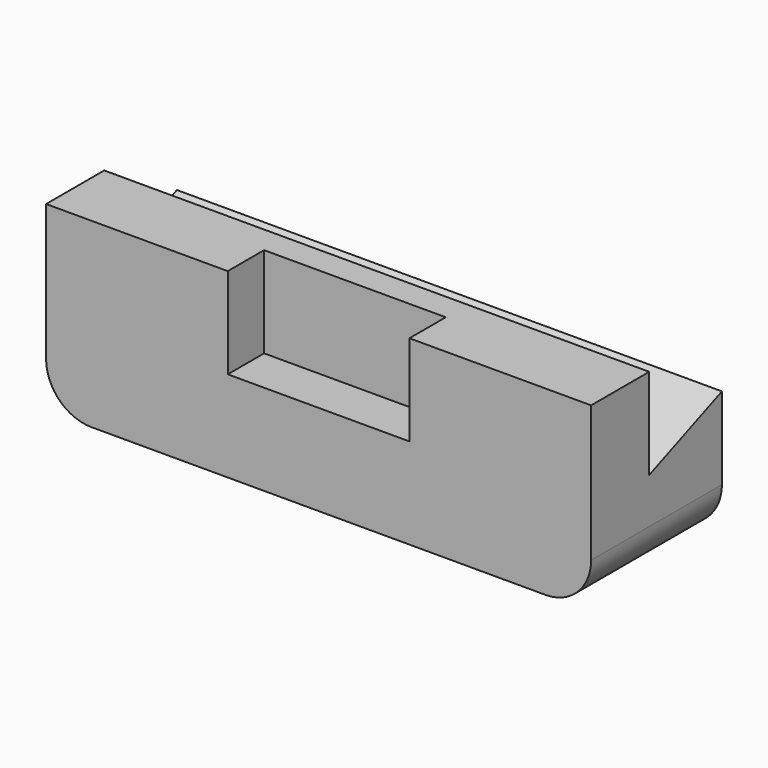
from build123d import *

# Parameters (mm, degrees)
F1_DEPTH = 20
F2_R     = 5
F3_W     = 20
F3_H     = 10
F4_DEPTH = 5
F5_DEPTH = 10
F7_DEPTH = 60.001


with BuildPart() as f1:
    # F0 (on Top) → F1 (new body)
    with BuildSketch(Plane.XY):
        Polygon((17.4899780222, -16.504585755), (17.4899780222, -21.504585755), (37.4899780222, -21.504585755), (37.4899780222, -13.504585755), (-22.5100219778, -13.504585755), (-22.5100219778, -21.504585755), (-2.5100219778, -21.504585755), (-2.5100219778, -16.504585755), align=None)
    extrude(amount=F1_DEPTH)

    # F2
    f2_edges = [f1.edges().sort_by_distance(p)[0] for p in [
        (-22.510022, -17.504586, 0),
        (37.489978, -17.504586, 0),
    ]]
    fillet(f2_edges, radius=F2_R)

    # F3 (on face) → F4 (join)
    with BuildSketch(Plane.XZ.offset(16.504585755)):
        with Locations((7.4899780222, 5)):
            Rectangle(F3_W, F3_H)
        with Locations((7.4899780222, 5)):
            Rectangle(F3_W, F3_H)
    extrude(amount=F4_DEPTH)

    # F5 (add): a face of the model
    f5_faces = [f1.faces().sort_by_distance(p)[0] for p in [
        (7.4899780222, -13.504585755, 10.0801475974),
    ]]
    extrude(f5_faces, amount=F5_DEPTH)

    # F6 (on face) → F7 (cut, through all)
    with BuildSketch(Plane.YZ.offset(37.4899780222)):
        Polygon((-3.504585755, 14.0402622584), (-3.504585755, 20), (-13.504585755, 20), (-13.504585755, 10), align=None)
    extrude(amount=-F7_DEPTH, mode=Mode.SUBTRACT)


solid = f1.part
